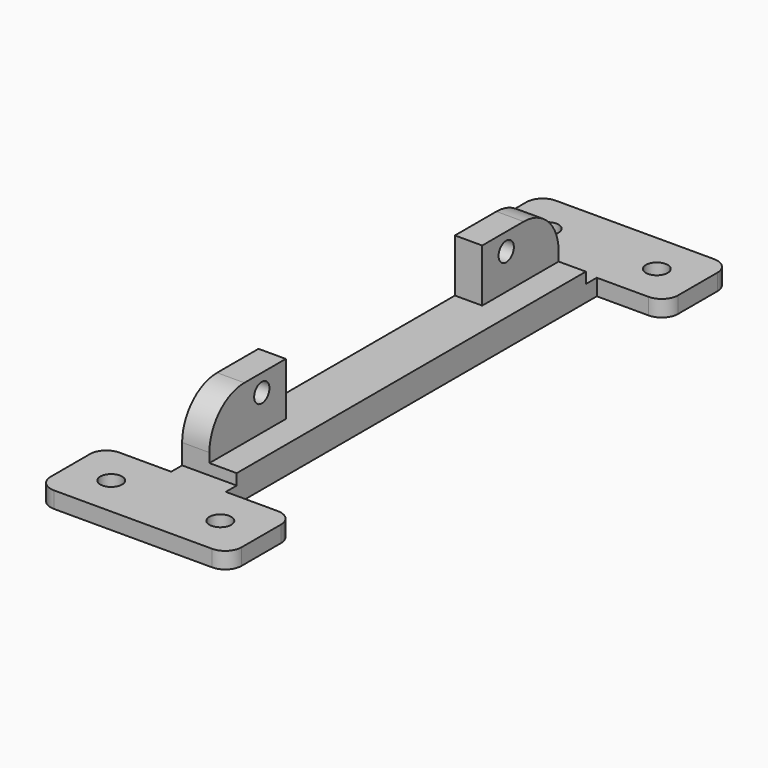
from build123d import *

# Parameters (mm, degrees)
SKETCH_R     = 2
PAD_DEPTH    = 3
SKETCH001_W  = 5
SKETCH001_H  = 80
PAD001_DEPTH = 11.7
SKETCH002_R  = 1.75
SKETCH002_W  = 45
SKETCH002_H  = 10
POCKET_DEPTH = 15
SKETCH003_W  = 5
SKETCH003_H  = 80
PAD002_DEPTH = 2
FILLET_R     = 8


with BuildPart() as part:
    # Sketch → Pad (new body)
    with BuildSketch(Plane.XY):
        with BuildLine():
            Line((-14.5, 57.5), (14.5, 57.5))
            ThreePointArc((17.5, 54.5), (16.62132, 56.62132), (14.5, 57.5))
            Line((17.5, 54.5), (17.5, 45.5))
            ThreePointArc((14.5, 42.5), (16.62132, 43.37868), (17.5, 45.5))
            Line((14.5, 42.5), (5, 42.5))
            Line((5, 42.5), (5, -42.5))
            Line((5, -42.5), (14.5, -42.5))
            ThreePointArc((17.5, -45.5), (16.62132, -43.37868), (14.5, -42.5))
            Line((17.5, -45.5), (17.5, -54.5))
            ThreePointArc((14.5, -57.5), (16.62132, -56.62132), (17.5, -54.5))
            Line((14.5, -57.5), (-14.5, -57.5))
            ThreePointArc((-17.5, -54.5), (-16.62132, -56.62132), (-14.5, -57.5))
            Line((-17.5, -54.5), (-17.5, -45.5))
            ThreePointArc((-14.5, -42.5), (-16.62132, -43.37868), (-17.5, -45.5))
            Line((-5, -42.5), (-14.5, -42.5))
            Line((-5, 42.5), (-5, -42.5))
            Line((-14.5, 42.5), (-5, 42.5))
            ThreePointArc((-17.5, 45.5), (-16.62132, 43.37868), (-14.5, 42.5))
            Line((-17.5, 45.5), (-17.5, 54.5))
            ThreePointArc((-14.5, 57.5), (-16.62132, 56.62132), (-17.5, 54.5))
        make_face()
        with Locations((-10, 50)):
            Circle(SKETCH_R, mode=Mode.SUBTRACT)
        with Locations((10, 50)):
            Circle(SKETCH_R, mode=Mode.SUBTRACT)
        with Locations((-10, -50)):
            Circle(SKETCH_R, mode=Mode.SUBTRACT)
        with Locations((10, -50)):
            Circle(SKETCH_R, mode=Mode.SUBTRACT)
    extrude(amount=PAD_DEPTH)

    # Sketch001 → Pad001 (join)
    with BuildSketch(Plane.XY.offset(3)):
        with Locations((-2.5, 0)):
            Rectangle(SKETCH001_W, SKETCH001_H)
    extrude(amount=PAD001_DEPTH)

    # Sketch002 → Pocket (cut)
    with BuildSketch(Plane.YZ.offset(5)):
        with Locations((-28, 11.5)):
            Circle(SKETCH002_R)
        with Locations((28, 11.5)):
            Circle(SKETCH002_R)
        with Locations((0, 10)):
            Rectangle(SKETCH002_W, SKETCH002_H)
    extrude(amount=-POCKET_DEPTH, mode=Mode.SUBTRACT)

    # Sketch003 → Pad002 (join)
    with BuildSketch(Plane.XY.offset(3)):
        with Locations((2.5, 0)):
            Rectangle(SKETCH003_W, SKETCH003_H)
    extrude(amount=PAD002_DEPTH)

    # Fillet
    fillet_edges = [part.edges().sort_by_distance(p)[0] for p in [
        (-2.5, -40, 14.7),
        (-2.5, 40, 14.7),
    ]]
    fillet(fillet_edges, radius=FILLET_R)


solid = part.part
